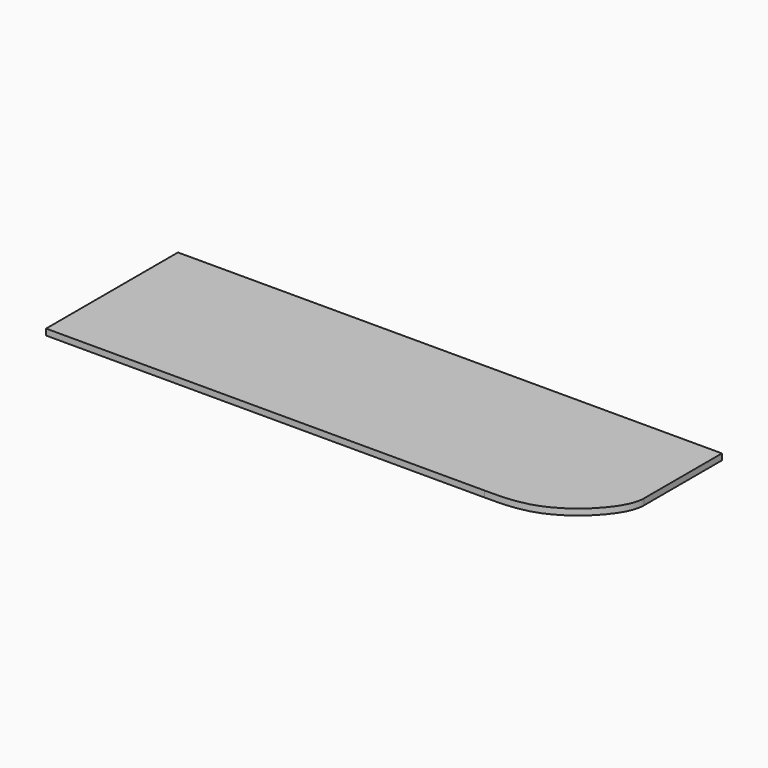
from build123d import *

# Parameters (mm, degrees)
F1_DEPTH = 19.05


with BuildPart() as f1:
    # F0 (on Top) → F1 (new body)
    with BuildSketch(Plane.XY):
        with BuildLine():
            Line((1676.4, 0), (0, 0))
            Line((0, 0), (0, -508))
            Line((0, -508), (1351.7922725288, -508))
            add(Edge.make_bspline(
                [(1351.7922725288, -508), (1424.5377850671, -509.2571292397), (1545.3497992736, -499.7970663676), (1676.4, -359.6729882774), (1676.4, -300.8069336454)],
                knots=[0, 0, 0, 0, 0.4909939758, 1, 1, 1, 1], degree=3))
            Line((1676.4, -300.8069336454), (1676.4, 0))
        make_face()
    extrude(amount=F1_DEPTH)


solid = f1.part
